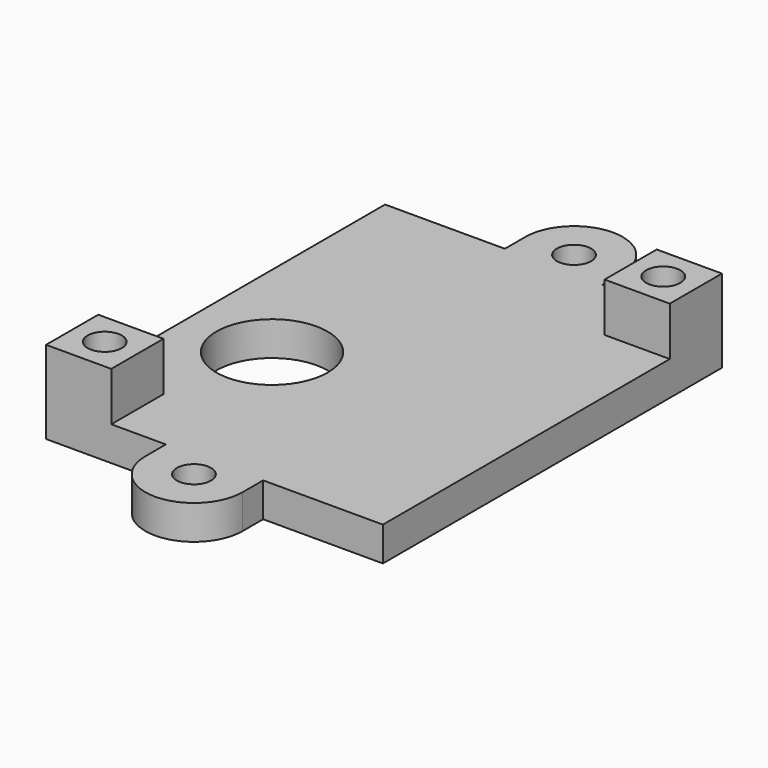
from build123d import *

# Parameters (mm, degrees)
PAD_DEPTH       = 4
SKETCH001_R     = 6.5
POCKET_DEPTH    = 5
SKETCH002_W     = 7.62
SKETCH002_H     = 7.62
PAD001_DEPTH    = 5.7
SKETCH003_R     = 2
POCKET001_DEPTH = 5.7
SKETCH004_R     = 2
POCKET002_DEPTH = 5


with BuildPart() as part:
    # Sketch → Pad (new body)
    with BuildSketch(Plane.XY):
        with BuildLine():
            Line((0, 0), (0, 49.53))
            Line((0, 49.53), (14, 49.53))
            Line((14, 49.53), (14, 52.53))
            ThreePointArc((25.37, 52.53), (19.685, 58.215), (14, 52.53))
            Line((25.37, 49.53), (25.37, 52.53))
            Line((25.37, 49.53), (39.37, 49.53))
            Line((39.37, 49.53), (39.37, 0))
            Line((39.37, 0), (25.37, 0))
            Line((25.37, 0), (25.37, -3))
            ThreePointArc((14, -3), (19.685, -8.685027), (25.37, -3))
            Line((14, 0), (14, -3))
            Line((0, 0), (14, 0))
        make_face()
    extrude(amount=PAD_DEPTH)

    # Sketch001 (on Face14 of Pad) → Pocket (cut)
    with BuildSketch(Plane.XY.offset(4)):
        with Locations((10.16, 20.31)):
            Circle(SKETCH001_R)
    extrude(amount=-POCKET_DEPTH, mode=Mode.SUBTRACT)

    # Sketch002 (on Face5 of Pocket) → Pad001 (join)
    with BuildSketch(Plane.XY.offset(4)):
        with Locations((3.81, 3.81)):
            Rectangle(SKETCH002_W, SKETCH002_H)
        with Locations((35.56, 45.72)):
            Rectangle(SKETCH002_W, SKETCH002_H)
    extrude(amount=PAD001_DEPTH)

    # Sketch003 (on Face19 of Pad001) → Pocket001 (cut)
    with BuildSketch(Plane.XY.offset(9.7)):
        with Locations((3.81, 3.81)):
            Circle(SKETCH003_R)
        with Locations((35.56, 45.72)):
            Circle(SKETCH003_R)
    extrude(amount=-POCKET001_DEPTH, mode=Mode.SUBTRACT)

    # Sketch004 (on Face6 of Pocket001) → Pocket002 (cut)
    with BuildSketch(Plane.XY.offset(4)):
        with Locations((19.685, -3.000027)):
            Circle(SKETCH004_R)
        with Locations((19.685, 52.53)):
            Circle(SKETCH004_R)
    extrude(amount=-POCKET002_DEPTH, mode=Mode.SUBTRACT)


solid = part.part
